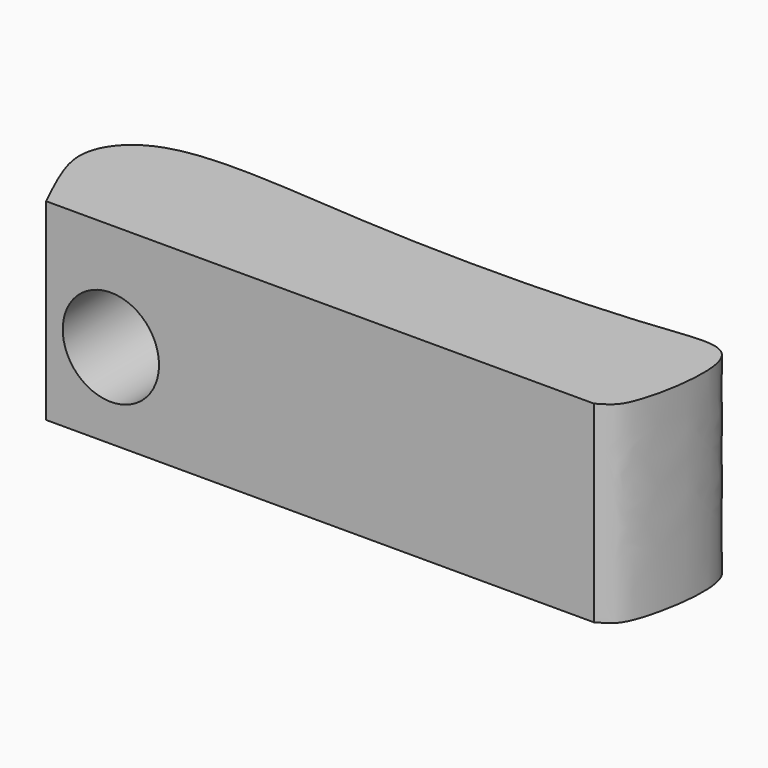
from build123d import *

# Parameters (mm, degrees)
F1_DEPTH = 25.4
F2_R     = 6.35
F3_DEPTH = 12.7


with BuildPart() as f1:
    # F0 (on Top) → F1 (new body)
    with BuildSketch(Plane.XY):
        with BuildLine():
            add(Edge.make_bspline(
                [(24.3028383702, 0), (25.7710410603, 0.8701346799), (27.6747426878, 2.0172740136), (30.7123582992, 19.4420862531), (16.9987790079, 16.7192048091), (-17.0314217592, 15.8205388666), (-45.7350466802, 19.8170788538), (-53.1383378672, 11.0513268214), (-50.8253900172, 5.9571333036), (-47.9744374752, 0)],
                knots=[0, 0, 0, 0, 0.0772101765, 0.2157083697, 0.3311898223, 0.5610840992, 0.7635669186, 0.8682192446, 1, 1, 1, 1], degree=3))
            Line((-47.9744374752, 0), (24.3028383702, 0))
        make_face()
    extrude(amount=F1_DEPTH)

    # F2 (on Front) → F3 (cut)
    with BuildSketch(Plane.XZ):
        with Locations((-39.4293889403, 11.2244244665)):
            Circle(F2_R)
    extrude(amount=-F3_DEPTH, mode=Mode.SUBTRACT)


solid = f1.part
